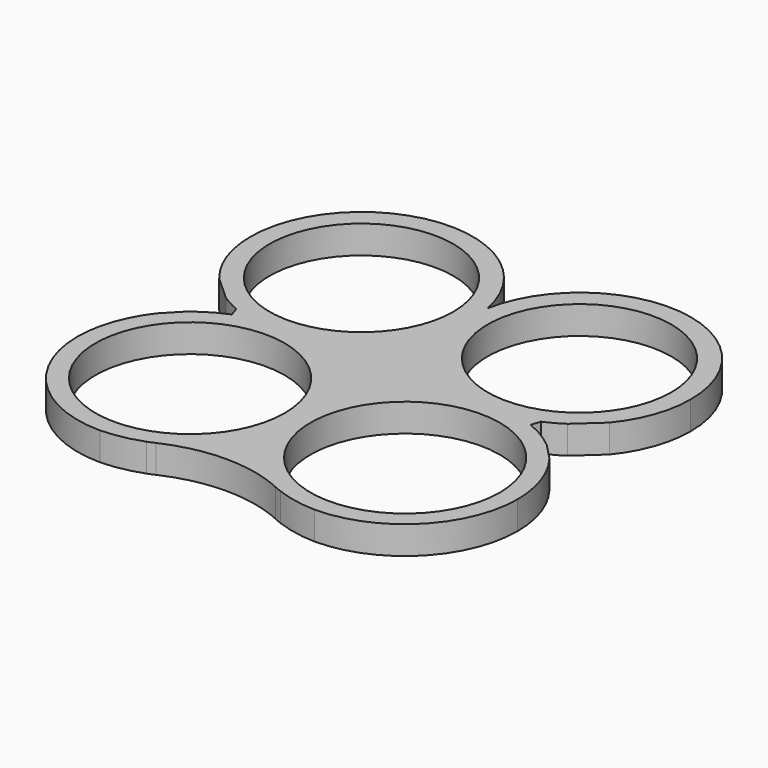
from build123d import *

# Parameters (mm, degrees)
F2_R     = 111.219822
F2_R_2   = 107.971154
F3_DEPTH = 33.02
F4_R     = 168.535103


with BuildPart() as f3:
    # F2 (on Top) → F3 (new body)
    with BuildSketch(Plane.XY):
        with BuildLine():
            ThreePointArc((-230.728179, -44.370614), (-251.440516, -82.851948), (-258.738101, -125.939757))
            ThreePointArc((-258.738101, -125.939757), (-219.839177, -219.580253), (-126.260236, -258.627027))
            ThreePointArc((-126.260236, -258.627027), (-102.176368, -256.061677), (-78.85915, -249.510258))
            ThreePointArc((-78.85915, -249.510258), (-29.568087, -216.546357), (0, -165.146396))
            ThreePointArc((0, -165.146396), (29.560129, -216.553795), (78.85915, -249.510258))
            ThreePointArc((78.85915, -249.510258), (102.176368, -256.061677), (126.260236, -258.627027))
            ThreePointArc((126.260236, -258.627027), (219.839177, -219.580253), (258.738101, -125.939757))
            ThreePointArc((258.738101, -125.939757), (251.440516, -82.851948), (230.728179, -44.370614))
            Line((230.728179, -44.370614), (212.309614, -25.240019))
            ThreePointArc((212.309614, -25.240019), (194.800133, -12.709117), (175.517112, -3.129424))
            Line((175.517112, -3.129424), (179.085225, 7.86738))
            ThreePointArc((179.085225, 7.86738), (190.270178, 13.298483), (200.912178, 19.728716))
            Line((200.912178, 19.728716), (229.211181, 45.454361))
            ThreePointArc((229.211181, 45.454361), (251.18703, 84.187969), (258.738101, 128.076598))
            ThreePointArc((258.738101, 128.076598), (140.740138, 258.514188), (0, 153.016806))
            ThreePointArc((0, 153.016806), (-140.740138, 258.514188), (-258.738101, 128.076598))
            ThreePointArc((-258.738101, 128.076598), (-251.18703, 84.187969), (-229.211181, 45.454361))
            Line((-229.211181, 45.454361), (-200.912178, 19.728716))
            ThreePointArc((-200.912178, 19.728716), (-190.270178, 13.298483), (-179.085225, 7.86738))
            Line((-179.085225, 7.86738), (-175.517112, -3.129424))
            ThreePointArc((-175.517112, -3.129424), (-194.800133, -12.709117), (-212.309614, -25.240019))
            Line((-212.309614, -25.240019), (-230.728179, -44.370614))
        make_face()
        with Locations((-126.379907, -125.917777)):
            Circle(F2_R, mode=Mode.SUBTRACT)
        with Locations((126.379907, -125.917777)):
            Circle(F2_R, mode=Mode.SUBTRACT)
        with Locations((-128.127411, 128.015205)):
            Circle(F2_R_2, mode=Mode.SUBTRACT)
        with Locations((128.127411, 128.015205)):
            Circle(F2_R_2, mode=Mode.SUBTRACT)
    extrude(amount=F3_DEPTH)

    # F4
    f4_edges = [f3.edges().sort_by_distance(p)[0] for p in [
        (0, -165.146396, 16.51),
    ]]
    fillet(f4_edges, radius=F4_R)


solid = f3.part
